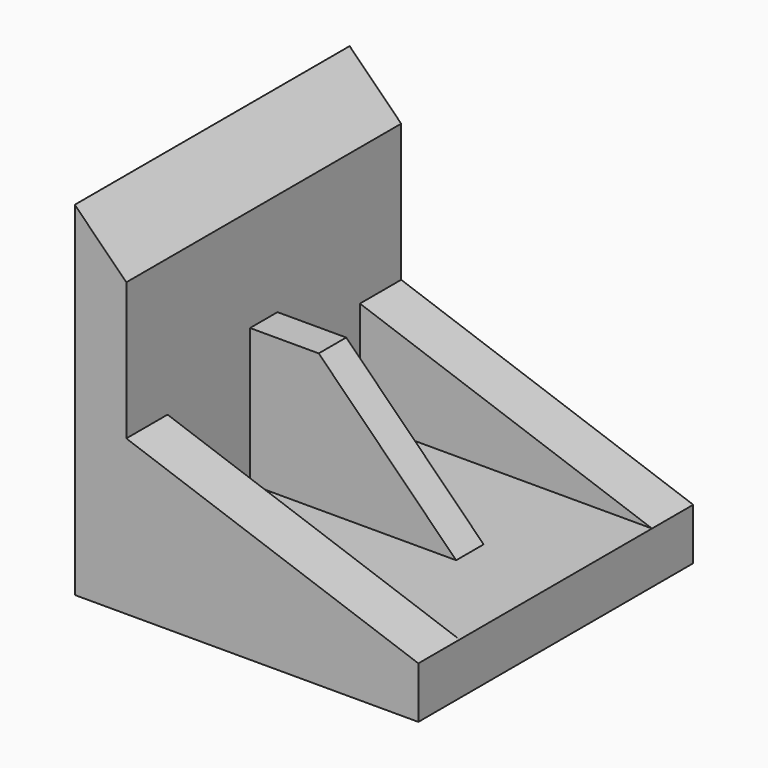
from build123d import *

# Parameters (mm, degrees)
F1_DEPTH = 127
F2_DEPTH = 12.7
F4_DEPTH = 38.1
F6_DEPTH = 38.1


with BuildPart() as f1:
    # F0 (on Front) → F1 (new body, symmetric)
    with BuildSketch(Plane.XZ):
        Polygon((0, 254), (0, 0), (254, 0), (254, 38.1), (190.5, 38.1), (38.1, 38.1), (38.1, 139.7), (38.1, 215.9), align=None)
    extrude(amount=F1_DEPTH, both=True)

    # F0 (on Front) → F2 (join, symmetric)
    with BuildSketch(Plane.XZ):
        Polygon((88.9, 139.7), (38.1, 139.7), (38.1, 38.1), (190.5, 38.1), align=None)
    extrude(amount=F2_DEPTH, both=True)

    # F3 (on face) → F4 (join)
    with BuildSketch(Plane.XZ.offset(127)):
        Polygon((254, 38.1), (38.1, 114.3), (38.1, 38.1), align=None)
    extrude(amount=-F4_DEPTH)

    # F5 (on face) → F6 (join)
    with BuildSketch(Plane(origin=(0, 127, 0), x_dir=(-1, 0, 0), z_dir=(0, 1, 0))):
        Polygon((-38.1, 38.1), (-38.1, 114.3), (-254, 38.1), align=None)
    extrude(amount=-F6_DEPTH)


solid = f1.part
